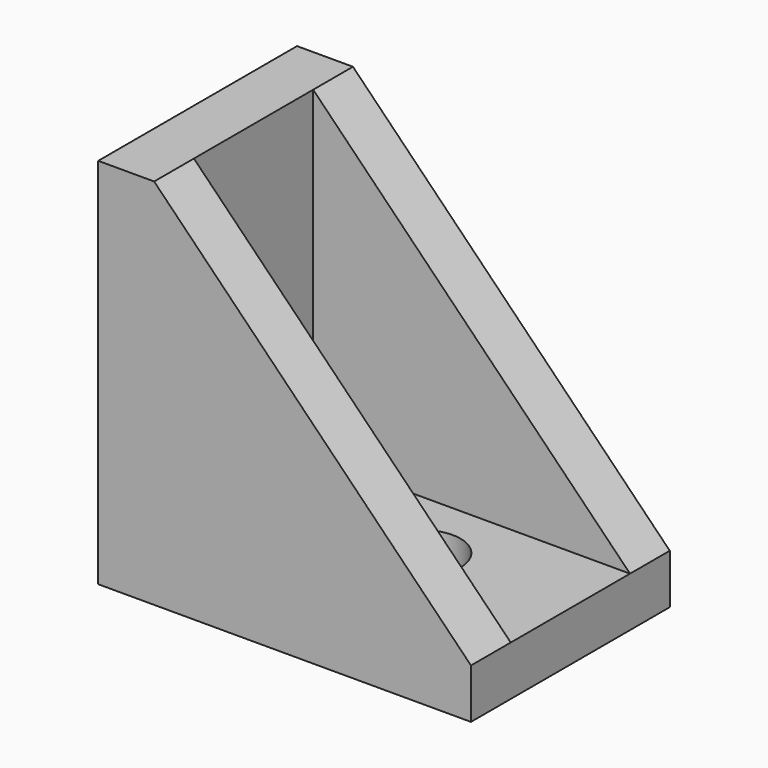
from build123d import *

# Parameters (mm, degrees)
F1_DEPTH = 20
F2_W     = 25.5
F2_H     = 12
F3_DEPTH = 26
F4_R     = 3.15
F5_DEPTH = 25
F6_R     = 3.15
F7_DEPTH = 25


with BuildPart() as f1:
    # F0 (on Front) → F1 (new body)
    with BuildSketch(Plane.XZ):
        Polygon((0, 30), (0, 0), (30, 0), (30, 4), (4.5, 30), align=None)
    extrude(amount=F1_DEPTH)

    # F2 (on face) → F3 (cut)
    with BuildSketch(Plane.XY.offset(30)):
        with Locations((17.25, -10)):
            Rectangle(F2_W, F2_H)
    extrude(amount=-F3_DEPTH, mode=Mode.SUBTRACT)

    # F4 (on Right) → F5 (cut)
    with BuildSketch(Plane.YZ):
        with Locations((-10, 15)):
            Circle(F4_R)
    extrude(amount=F5_DEPTH, mode=Mode.SUBTRACT)

    # F6 (on face) → F7 (cut)
    with BuildSketch(Plane.XY.offset(4)):
        with Locations((18, -10)):
            Circle(F6_R)
    extrude(amount=-F7_DEPTH, mode=Mode.SUBTRACT)


solid = f1.part
